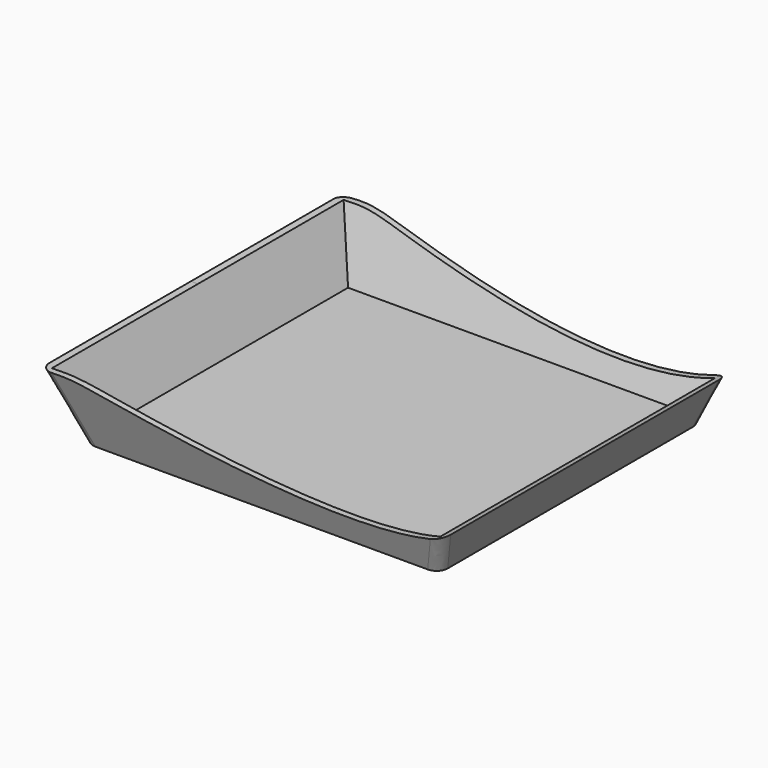
from build123d import *

# Parameters (mm, degrees)
F0_W          = 149.5184749365
F0_H          = 138.5866999626
F1_DEPTH      = 50
F1_TAPER      = -20
F2_T          = -2.5
F3_R          = 5
F5_DEPTH      = 141
F5_DEPTH_BACK = 150


with BuildPart() as f1:
    # F0 (on Top) → F1 (new body)
    with BuildSketch(Plane.XY):
        Rectangle(F0_W, F0_H)
    extrude(amount=F1_DEPTH, taper=F1_TAPER)

    # F2
    f2_openings = [f1.faces().sort_by_distance(p)[0] for p in [
        (0, 0, 50),
    ]]
    offset(amount=F2_T, openings=f2_openings)

    # F3
    f3_edges = [f1.edges().sort_by_distance(p)[0] for p in [
        (83.858493, -78.392606, 25),
        (83.858493, 78.392606, 25),
        (-83.858493, 78.392606, 25),
        (-83.858493, -78.392606, 25),
    ]]
    fillet(f3_edges, radius=F3_R)

    # F4 (on Front) → F5 (cut, two sides)
    with BuildSketch(Plane.XZ) as f5_sk:
        with BuildLine():
            add(Edge.make_bspline(
                [(-104.6083271503, 68.6923488975), (-112.4291400746, 63.4435605541), (-100.4184431542, 48.1193722378), (-91.4247363257, 26.6090107495), (-74.2826289117, 29.4747868605), (-50.6037625695, 22.9742716159), (83.0077542168, -5.3000463228), (126.9620057667, 53.6710788262), (142.4676554871, 77.6647561908), (-78.1120375116, 86.474824651), (-104.6083271503, 68.6923488975)],
                knots=[0, 0, 0, 0, 0.080896146, 0.1667255132, 0.2309358336, 0.3207373898, 0.5249254104, 0.6699259495, 0.7259303176, 1, 1, 1, 1], degree=3))
        make_face()
    extrude(amount=-F5_DEPTH, mode=Mode.SUBTRACT)
    extrude(f5_sk.sketch, amount=F5_DEPTH_BACK, mode=Mode.SUBTRACT)


solid = f1.part
